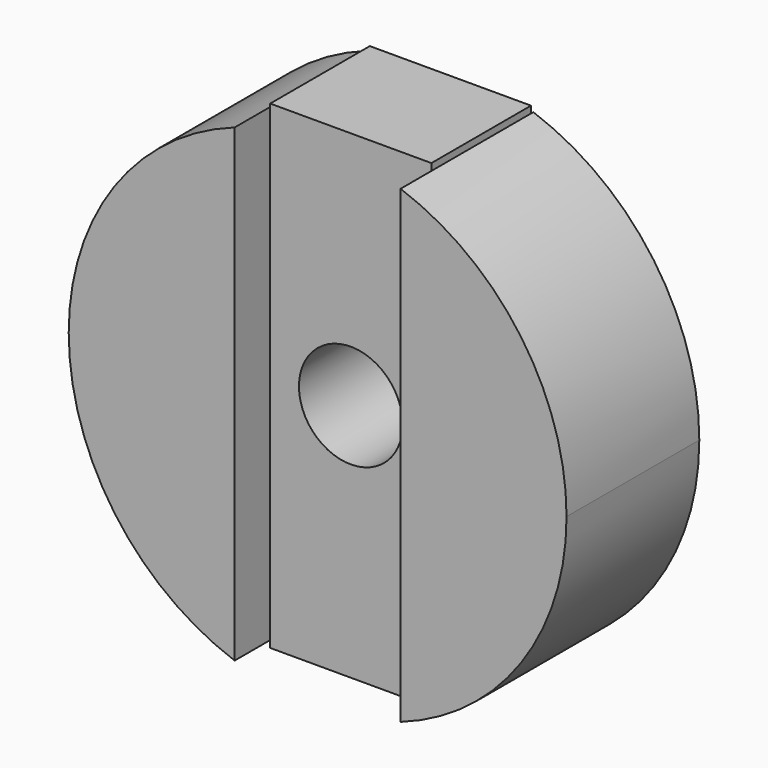
from build123d import *

# Parameters (mm, degrees)
F1_DEPTH = 12.7
F2_W     = 12.334196
F2_H     = 36.678012
F4_DEPTH = 9.525
F5_D     = 7.9375


with BuildPart() as f1:
    # F0 (on Front) → F1 (new body)
    with BuildSketch(Plane.XZ):
        with BuildLine():
            ThreePointArc((6.35, -17.960512), (15.55426, -10.998523), (19.05, 0))
            ThreePointArc((19.05, 0), (15.55426, 10.998523), (6.35, 17.960512))
            Line((6.35, 17.960512), (6.35, -17.960512))
        make_face()
        with BuildLine():
            Line((-6.35, -17.960512), (-6.35, 17.960512))
            ThreePointArc((-6.35, 17.960512), (-19.05, 0), (-6.35, -17.960512))
        make_face()
    extrude(amount=F1_DEPTH)


with BuildPart() as f4:
    # F2 (on Front) → F4 (new body)
    with BuildSketch(Plane.XZ):
        Rectangle(F2_W, F2_H)
    extrude(amount=F4_DEPTH)

    # F5 (through all)
    with Locations(Plane(origin=(0, 0, 0), x_dir=(1, 0, 0), z_dir=(0, 1, 0))):
        with Locations((0, 0)):
            Hole(F5_D / 2)


solid = Compound([f1.part, f4.part])
